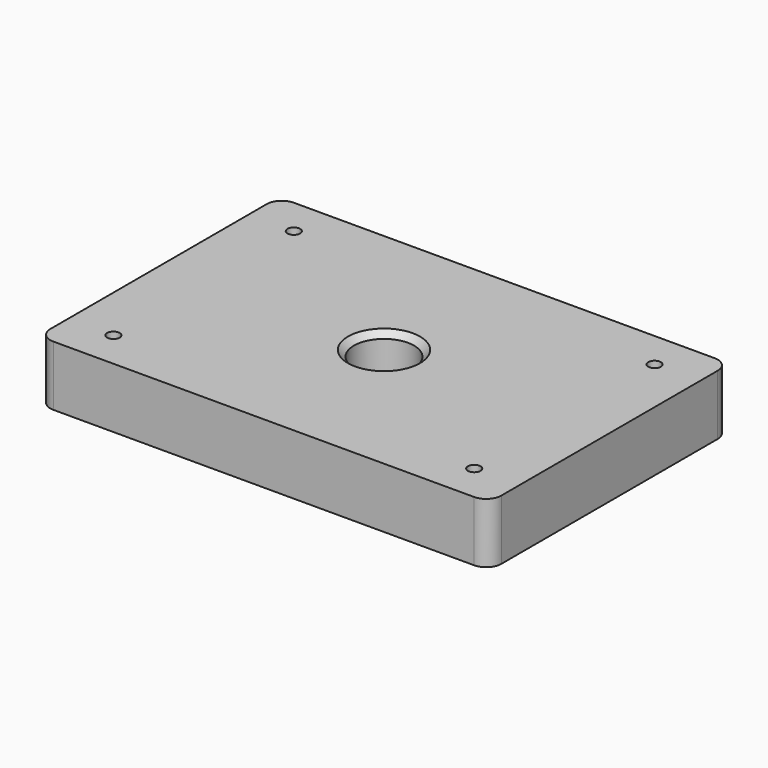
from build123d import *

# Parameters (mm, degrees)
F0_W     = 150
F0_H     = 100
F0_R     = 10
F1_DEPTH = 20
F2_R     = 5
F3_SIZE  = 2
F5_D     = 4.2


with BuildPart() as f1:
    # F0 (on Top) → F1 (new body)
    with BuildSketch(Plane.XY):
        Rectangle(F0_W, F0_H)
        Circle(F0_R, mode=Mode.SUBTRACT)
    extrude(amount=F1_DEPTH)

    # F2
    f2_edges = [f1.edges().sort_by_distance(p)[0] for p in [
        (-75, -50, 10),
        (-75, 50, 10),
        (75, -50, 10),
        (75, 50, 10),
    ]]
    fillet(f2_edges, radius=F2_R)

    # F3
    f3_edges = [f1.edges().sort_by_distance(p)[0] for p in [
        (-10, 0, 0),
        (-10, 0, 20),
    ]]
    chamfer(f3_edges, length=F3_SIZE)

    # F5 (through all)
    with Locations(Plane(origin=(0, 0, 0), x_dir=(1, 0, 0), z_dir=(0, 0, -1))):
        with Locations((60, -37.5), (-60, -37.5), (-60, 37.5), (60, 37.5)):
            Hole(F5_D / 2)


solid = f1.part
